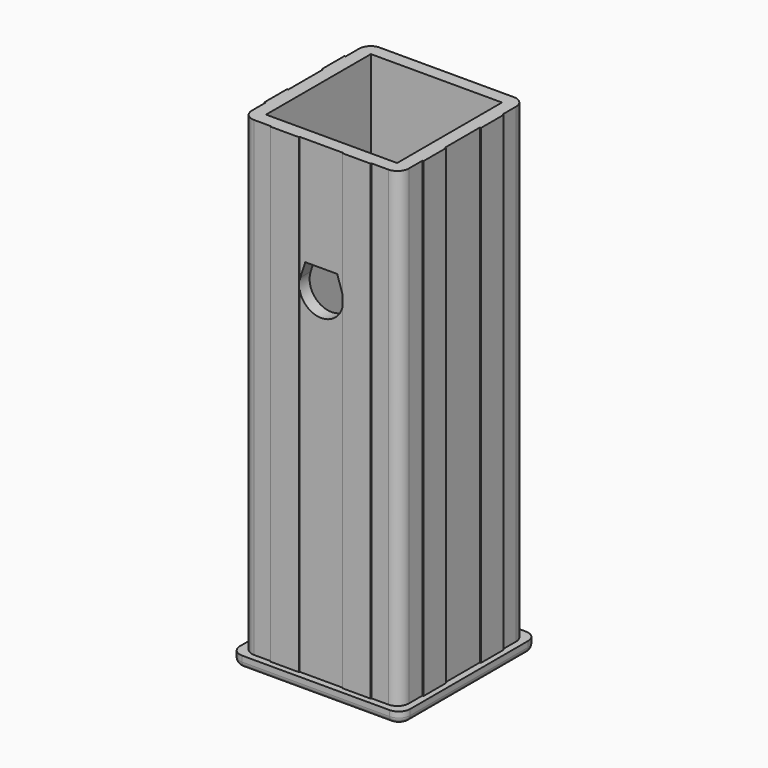
from build123d import *

# Parameters (mm, degrees)
F0_W     = 46.2
F0_H     = 46.2
F1_DEPTH = 166
F0_W_2   = 60
F0_H_2   = 60
F2_DEPTH = 4
F3_R     = 4
F4_R     = 2
F7_DEPTH = 80


with BuildPart() as f1:
    # F0 (on Top) → F1 (new body)
    with BuildSketch(Plane.XY):
        Polygon((27.65, 17.65), (27.65, 27.65), (-27.65, 27.65), (-27.65, 17.65), (-28.05, 17.65), (-28.05, 7.65), (-27.65, 7.65), (-27.65, -7.65), (-28.05, -7.65), (-28.05, -17.65), (-27.65, -17.65), (-27.65, -27.65), (-17.65, -27.65), (-17.65, -27.95), (-7.65, -27.95), (-7.65, -27.65), (7.65, -27.65), (7.65, -27.95), (17.65, -27.95), (17.65, -27.65), (27.65, -27.65), (27.65, -17.65), (28.05, -17.65), (28.05, -7.65), (27.65, -7.65), (27.65, 7.65), (28.05, 7.65), (28.05, 17.65), align=None)
        Rectangle(F0_W, F0_H, mode=Mode.SUBTRACT)
    extrude(amount=F1_DEPTH)

    # F0 (on Top) → F2 (join)
    with BuildSketch(Plane.XY):
        Rectangle(F0_W_2, F0_H_2)
        Polygon((-27.65, 27.65), (27.65, 27.65), (27.65, 17.65), (28.05, 17.65), (28.05, 7.65), (27.65, 7.65), (27.65, -7.65), (28.05, -7.65), (28.05, -17.65), (27.65, -17.65), (27.65, -27.65), (17.65, -27.65), (17.65, -27.95), (7.65, -27.95), (7.65, -27.65), (-7.65, -27.65), (-7.65, -27.95), (-17.65, -27.95), (-17.65, -27.65), (-27.65, -27.65), (-27.65, -17.65), (-28.05, -17.65), (-28.05, -7.65), (-27.65, -7.65), (-27.65, 7.65), (-28.05, 7.65), (-28.05, 17.65), (-27.65, 17.65), align=None, mode=Mode.SUBTRACT)
        Polygon((27.65, 17.65), (27.65, 27.65), (-27.65, 27.65), (-27.65, 17.65), (-28.05, 17.65), (-28.05, 7.65), (-27.65, 7.65), (-27.65, -7.65), (-28.05, -7.65), (-28.05, -17.65), (-27.65, -17.65), (-27.65, -27.65), (-17.65, -27.65), (-17.65, -27.95), (-7.65, -27.95), (-7.65, -27.65), (7.65, -27.65), (7.65, -27.95), (17.65, -27.95), (17.65, -27.65), (27.65, -27.65), (27.65, -17.65), (28.05, -17.65), (28.05, -7.65), (27.65, -7.65), (27.65, 7.65), (28.05, 7.65), (28.05, 17.65), align=None)
        Rectangle(F0_W, F0_H, mode=Mode.SUBTRACT)
    extrude(amount=-F2_DEPTH)

    # F3
    f3_edges = [f1.edges().sort_by_distance(p)[0] for p in [
        (-27.65, 27.65, 83),
        (-27.65, -27.65, 83),
        (27.65, -27.65, 83),
        (27.65, 27.65, 83),
        (30, 30, -2),
        (30, -30, -2),
        (-30, 30, -2),
        (-30, -30, -2),
    ]]
    fillet(f3_edges, radius=F3_R)

    # F4
    f4_edges = [f1.edges().sort_by_distance(p)[0] for p in [
        (30, 0, -4),
    ]]
    fillet(f4_edges, radius=F4_R)

    # F6 (on offset) → F7 (cut)
    with BuildSketch(Plane.XZ.offset(27.65)):
        with BuildLine():
            Line((-5.630705, 127.75), (-7.370688, 122.394882))
            ThreePointArc((-7.370688, 122.394882), (0, 112.25), (7.370688, 122.394882))
            Line((7.370688, 122.394882), (5.630705, 127.75))
            Line((5.630705, 127.75), (-5.630705, 127.75))
        make_face()
    extrude(amount=-F7_DEPTH, mode=Mode.SUBTRACT)


solid = f1.part
